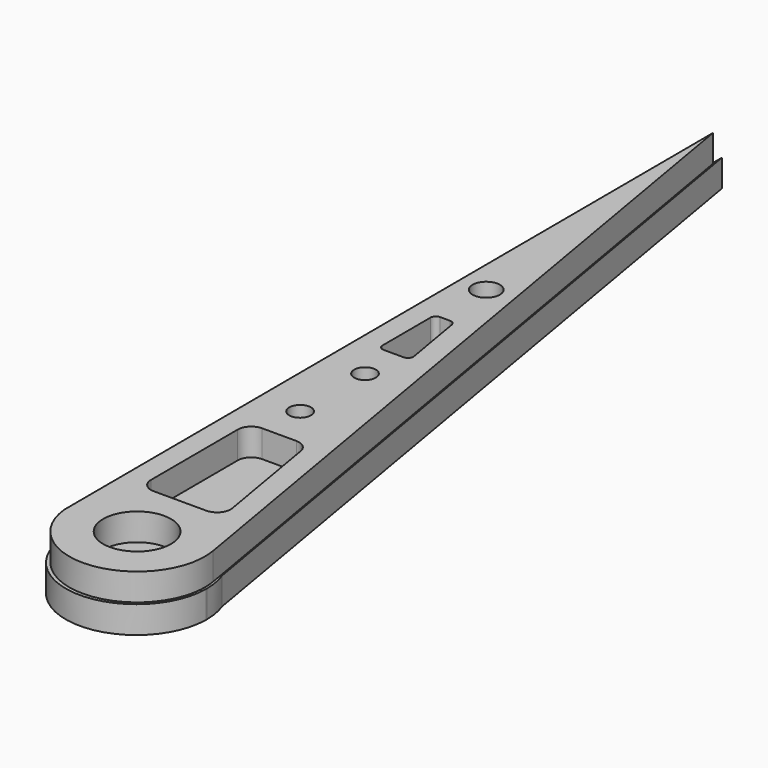
from build123d import *

# Parameters (mm, degrees)
F0_R     = 4
F0_R_2   = 12.5
F0_R_3   = 5
F1_DEPTH = 10
F3_DEPTH = 10
F5_DEPTH = 10


with BuildPart() as f1:
    # F0 (on Top) → F1 (new body, symmetric)
    with BuildSketch(Plane.XY):
        with BuildLine():
            Line((-20.543962, 242.302258), (-19.634877, -57.696364))
            ThreePointArc((-19.634877, -57.696364), (8.59643, -79.952697), (29.853362, -50.961424))
            Line((29.853362, -50.961424), (-20.543962, 242.302258))
        make_face()
        with BuildLine():
            Line((12.65154, -32.619782), (-6.725958, -32.619782))
            ThreePointArc((-6.725958, -32.619782), (-10.256131, -31.160668), (-11.725935, -27.634933))
            Line((-11.725935, -27.634933), (-11.84751, 12.484849))
            ThreePointArc((-11.84751, 12.484849), (-10.38842, 16.030173), (-6.847533, 17.5))
            Line((-6.847533, 17.5), (5.756961, 17.5))
            ThreePointArc((5.756961, 17.5), (8.979214, 16.32323), (10.684726, 13.346836))
            Line((10.684726, 13.346836), (17.579305, -26.772946))
            ThreePointArc((17.579305, -26.772946), (16.47477, -30.842034), (12.65154, -32.619782))
        make_face(mode=Mode.SUBTRACT)
        with Locations((-4.908372, 32.579835)):
            Circle(F0_R, mode=Mode.SUBTRACT)
        with Locations((-4.999281, 62.579835)):
            Circle(F0_R, mode=Mode.SUBTRACT)
        with Locations((5.226905, -55.193478)):
            Circle(F0_R_2, mode=Mode.SUBTRACT)
        with Locations((-10.44188, 125.224027)):
            Circle(F0_R_3, mode=Mode.SUBTRACT)
        with BuildLine():
            Line((-2.713003, 77.5), (-10.050577, 77.5))
            ThreePointArc((-10.050577, 77.5), (-11.462646, 78.083645), (-12.050567, 79.493939))
            Line((-12.050567, 79.493939), (-12.117614, 101.619189))
            ThreePointArc((-12.117614, 101.619189), (-11.533977, 103.037319), (-10.117623, 103.62525))
            Line((-10.117623, 103.62525), (-6.515225, 103.62525))
            ThreePointArc((-6.515225, 103.62525), (-5.226324, 103.154542), (-4.544118, 101.963984))
            Line((-4.544118, 101.963984), (-0.741897, 79.838734))
            ThreePointArc((-0.741897, 79.838734), (-1.183711, 78.211099), (-2.713003, 77.5))
        make_face(mode=Mode.SUBTRACT)
    extrude(amount=F1_DEPTH, both=True)

    # F2 (on Top) → F3 (join)
    with BuildSketch(Plane.XY):
        with BuildLine():
            Line((-17.758185, 116.28598), (-12.327851, 113.452759))
            Line((-12.327851, 113.452759), (-12.327851, -47.830094))
            ThreePointArc((-12.327851, -47.830094), (1.176909, -74.372973), (23.646388, -54.8275))
            Line((23.646388, -54.8275), (-7.25136, 142.539755))
            Line((-7.25136, 142.539755), (-12.327851, 142.539755))
            Line((-12.327851, 142.539755), (-17.758185, 116.28598))
        make_face()
    extrude(amount=-F3_DEPTH)

    # F4 (on Top) → F5 (join)
    with BuildSketch(Plane.XY):
        with BuildLine():
            ThreePointArc((29.503305, -46.357701), (0.523158, -29.868779), (-20.85342, -55.457358))
            ThreePointArc((-20.85342, -55.457358), (4.926275, -81.453466), (31.142796, -55.897952))
            Line((31.142796, -55.897952), (29.503305, -46.357701))
        make_face()
        with BuildLine():
            Line((-20.887821, 246.869915), (-20.85342, -55.457358))
            ThreePointArc((-20.85342, -55.457358), (0.523158, -29.868779), (29.503305, -46.357701))
            Line((29.503305, -46.357701), (-20.887821, 246.869915))
        make_face()
        with BuildLine():
            Line((29.503305, -46.357701), (31.142796, -55.897952))
            ThreePointArc((31.142796, -55.897952), (31.145634, -55.676184), (31.14658, -55.454399))
            ThreePointArc((31.14658, -55.454399), (30.732463, -50.832434), (29.503305, -46.357701))
        make_face()
    extrude(amount=-F5_DEPTH)


solid = f1.part
